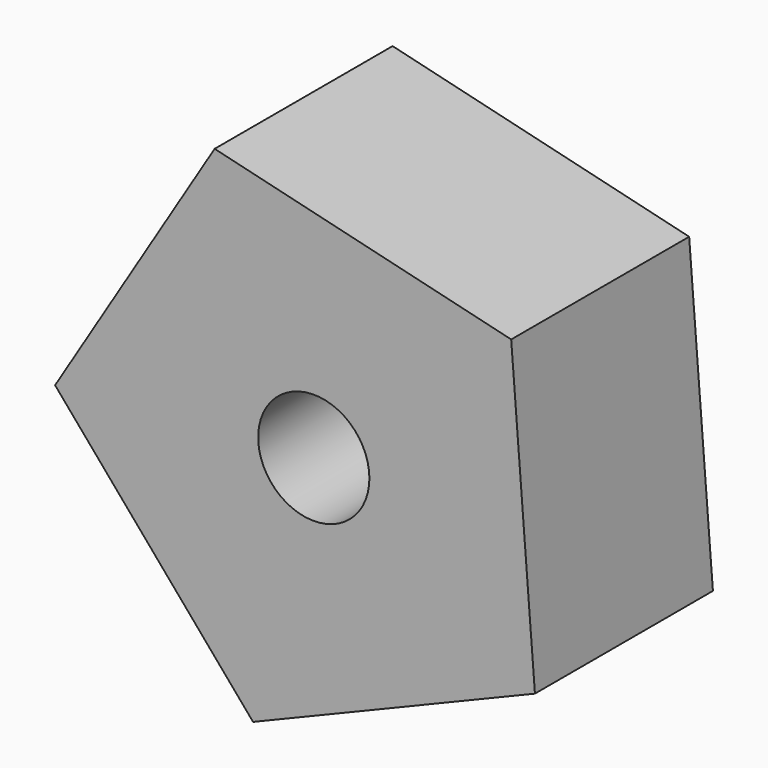
from build123d import *

# Parameters (mm, degrees)
F1_DEPTH = 25.4
F2_R     = 6.35
F3_DEPTH = 25.4


with BuildPart() as f1:
    # F0 (on Front) → F1 (new body)
    with BuildSketch(Plane.XZ):
        Polygon((-11.320572, 27.37729), (-29.535599, -2.306457), (-6.933432, -28.802758), (25.250503, -15.494627), (22.5391, 19.226552), align=None)
    extrude(amount=F1_DEPTH)

    # F2 (on face) → F3 (cut)
    with BuildSketch(Plane.XZ.offset(25.4)):
        Circle(F2_R)
    extrude(amount=-F3_DEPTH, mode=Mode.SUBTRACT)


solid = f1.part
